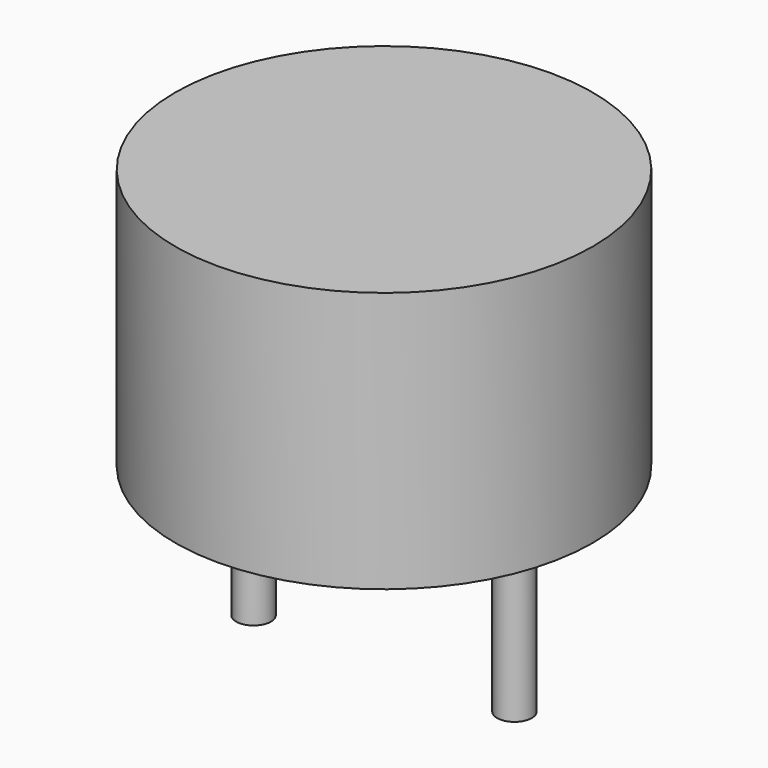
from build123d import *

# Parameters (mm, degrees)
F0_R     = 6
F1_DEPTH = 7.5
F2_R     = 0.5
F3_DEPTH = 5


with BuildPart() as f1:
    # F0 (on Top) → F1 (new body)
    with BuildSketch(Plane.XY):
        Circle(F0_R)
    extrude(amount=F1_DEPTH)

    # F2 (on face) → F3 (join)
    with BuildSketch(Plane(origin=(0, 0, 0), x_dir=(1, 0, 0), z_dir=(0, 0, -1))):
        with Locations((-3.75, 0)):
            Circle(F2_R)
        with Locations((3.75, 0)):
            Circle(F2_R)
    extrude(amount=F3_DEPTH)


solid = f1.part
